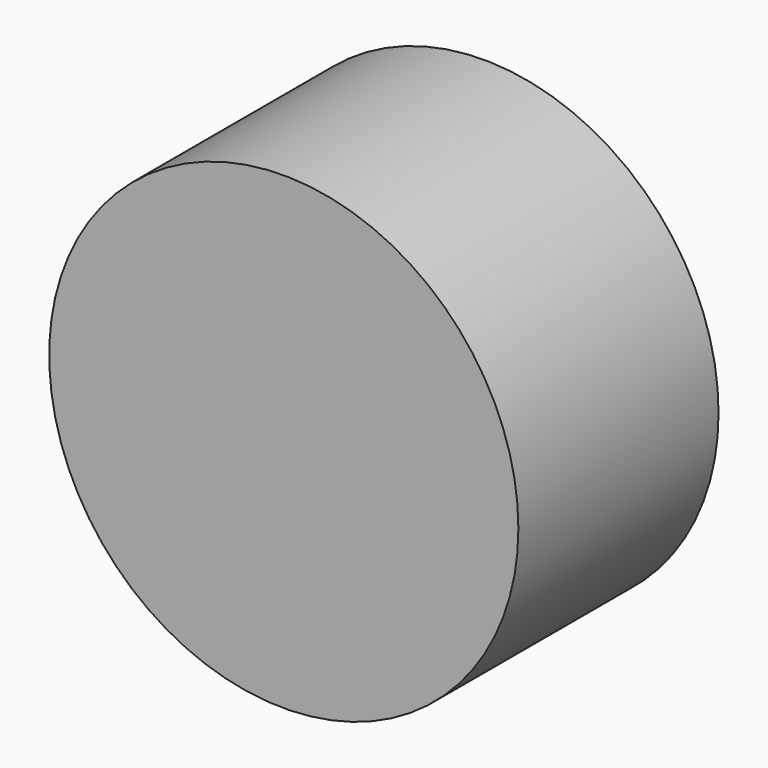
from build123d import *

# Parameters (mm, degrees)
SKETCH_R  = 7.5
PAD_DEPTH = 8


with BuildPart() as part:
    # Sketch → Pad (new body)
    with BuildSketch(Plane.XZ):
        Circle(SKETCH_R)
    extrude(amount=PAD_DEPTH)


solid = part.part
